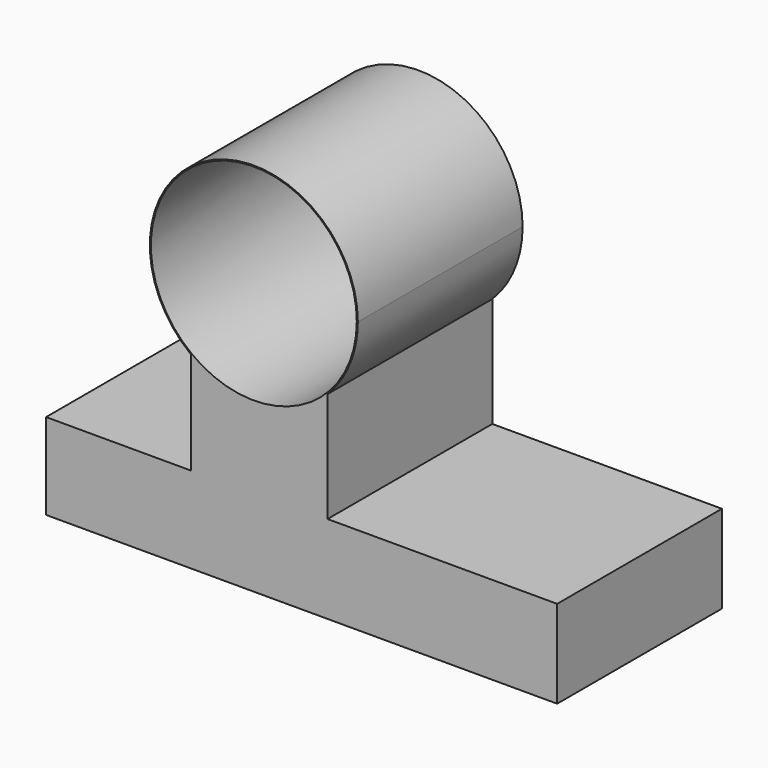
from build123d import *

# Parameters (mm, degrees)
F0_R     = 13.8176
F1_DEPTH = 27.6352


with BuildPart() as f1:
    # F0 (on Front) → F1 (new body)
    with BuildSketch(Plane.XZ):
        with BuildLine():
            Line((-31.52454, -34.335882), (-31.52454, -45.89908))
            Line((-31.52454, -45.89908), (37.05546, -45.89908))
            Line((37.05546, -45.89908), (37.05546, -34.098479))
            Line((37.05546, -34.098479), (6.246035, -34.098479))
            Line((6.246035, -34.098479), (6.246035, -24.50948))
            Line((6.246035, -24.50948), (6.246035, -19.340015))
            ThreePointArc((6.246035, -19.340015), (-2.667561, -23.417926), (-12.064511, -20.628864))
            Line((-12.064511, -20.628864), (-12.064511, -23.336734))
            Line((-12.064511, -23.336734), (-12.064511, -34.335882))
            Line((-12.064511, -34.335882), (-31.52454, -34.335882))
        make_face()
        with BuildLine():
            ThreePointArc((10.309733, -9.495074), (-9.865621, 3.000606), (-12.064511, -20.628864))
            ThreePointArc((-12.064511, -20.628864), (-2.667561, -23.417926), (6.246035, -19.340015))
            ThreePointArc((6.246035, -19.340015), (9.253871, -14.820403), (10.309733, -9.495074))
        make_face()
        with Locations((-3.647567, -9.495074)):
            Circle(F0_R, mode=Mode.SUBTRACT)
    extrude(amount=F1_DEPTH)


solid = f1.part
